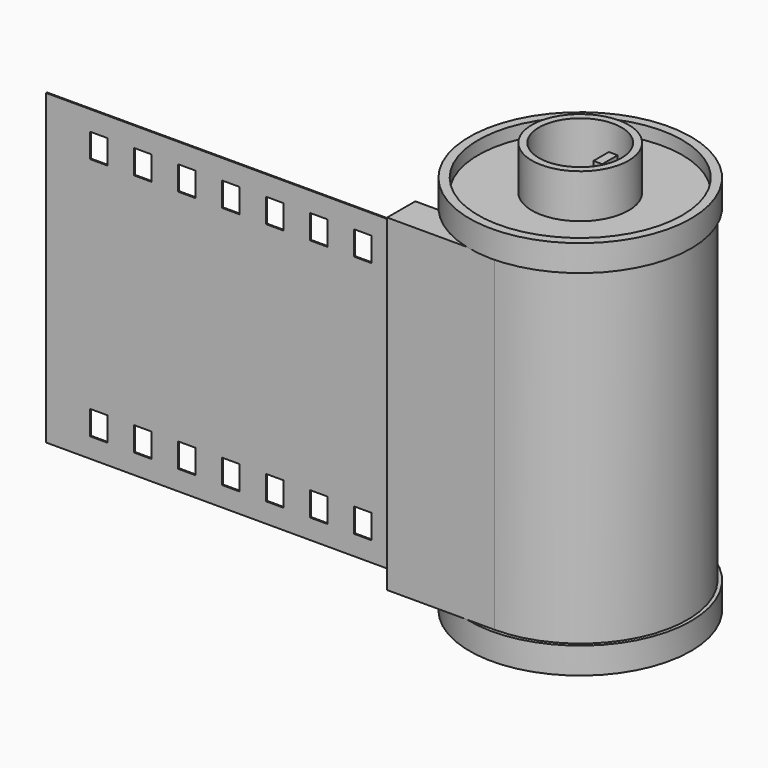
from build123d import *

# Parameters (mm, degrees)
F1_DEPTH  = 18.65
F4_R      = 4.65
F5_DEPTH  = 5
F7_DEPTH  = 7
F10_R     = 5.5
F10_R_2   = 4.7
F11_DEPTH = 5
F12_R     = 4.7
F13_DEPTH = 9.5
F15_DEPTH = 11.5
F17_W     = 40
F17_H     = 35
F17_W_2   = 2
F17_H_2   = 2.75
F18_DEPTH = 0.14


with BuildPart() as f1:
    # F0 (on Top) → F1 (new body, symmetric)
    with BuildSketch(Plane.XY):
        with BuildLine():
            Line((-12.2, -12.2), (0, -12.2))
            ThreePointArc((0, -12.2), (4.9396356141, 11.1552678139), (-9.0332718325, -8.2))
            Line((-9.0332718325, -8.2), (-12.2, -8.2))
            Line((-12.2, -8.2), (-12.2, -12.2))
        make_face()
    extrude(amount=F1_DEPTH, both=True)

    # F2 (on Front) → F3 (revolve)
    with BuildSketch(Plane.XZ):
        Polygon((12.6, -18.65), (0, -18.65), (0, -20.15), (11.6, -20.15), (11.6, -21.65), (12.6, -21.65), align=None)
    revolve(axis=Axis((0, 0, -19.4), (0, 0, -1)))

    # F4 (on face) → F5 (cut)
    with BuildSketch(Plane(origin=(0, 0, -20.15), x_dir=(1, 0, 0), z_dir=(0, 0, -1))):
        Circle(F4_R)
    extrude(amount=-F5_DEPTH, mode=Mode.SUBTRACT)

    # F6 (on face) → F7 (cut)
    with BuildSketch(Plane(origin=(0, 0, -15.15), x_dir=(1, 0, 0), z_dir=(0, 0, -1))):
        with BuildLine():
            Line((-0.5, -4.6230401253), (-0.5, 4.6230401253))
            ThreePointArc((-0.5, 4.6230401253), (-4.65, 0), (-0.5, -4.6230401253))
        make_face()
        with BuildLine():
            ThreePointArc((4.65, 0), (3.4603106797, 3.1062437123), (0.5, 4.6230401253))
            Line((0.5, 4.6230401253), (0.5, -4.6230401253))
            ThreePointArc((0.5, -4.6230401253), (3.4603106797, -3.1062437123), (4.65, 0))
        make_face()
    extrude(amount=-F7_DEPTH, mode=Mode.SUBTRACT)

    # F8 (on Front) → F9 (revolve)
    with BuildSketch(Plane.XZ):
        Polygon((0, 20.15), (0, 18.65), (12.6, 18.65), (12.6, 21.65), (11.6, 21.65), (11.6, 20.15), align=None)
    revolve(axis=Axis((0, 0, 19.4), (0, 0, -1)))

    # F10 (on face) → F11 (join)
    with BuildSketch(Plane.XY.offset(20.15)):
        Circle(F10_R)
        Circle(F10_R_2, mode=Mode.SUBTRACT)
    extrude(amount=F11_DEPTH)

    # F12 (on face) → F13 (cut)
    with BuildSketch(Plane.XY.offset(20.15)):
        Circle(F12_R)
    extrude(amount=-F13_DEPTH, mode=Mode.SUBTRACT)

    # F14 (on face) → F15 (join)
    with BuildSketch(Plane.XY.offset(10.65)):
        with BuildLine():
            ThreePointArc((0.5, 4.6733285782), (0, 4.7), (-0.5, 4.6733285782))
            Line((-0.5, 4.6733285782), (-0.5, 2.5))
            Line((-0.5, 2.5), (0.5, 2.5))
            Line((0.5, 2.5), (0.5, 4.6733285782))
        make_face()
        with BuildLine():
            ThreePointArc((-0.5, -4.6733285782), (0, -4.7), (0.5, -4.6733285782))
            Line((0.5, -4.6733285782), (0.5, -2.5))
            Line((0.5, -2.5), (-0.5, -2.5))
            Line((-0.5, -2.5), (-0.5, -4.6733285782))
        make_face()
    extrude(amount=F15_DEPTH)

    # F17 (on offset) → F18 (join)
    with BuildSketch(Plane.XZ.offset(10.55)):
        with Locations((-32.2, 0)):
            Rectangle(F17_W, F17_H)
        with Locations((-46.2, -13.875)):
            Rectangle(F17_W_2, F17_H_2, mode=Mode.SUBTRACT)
        with Locations((-41.2, -13.875)):
            Rectangle(F17_W_2, F17_H_2, mode=Mode.SUBTRACT)
        with Locations((-36.2, -13.875)):
            Rectangle(F17_W_2, F17_H_2, mode=Mode.SUBTRACT)
        with Locations((-31.2, -13.875)):
            Rectangle(F17_W_2, F17_H_2, mode=Mode.SUBTRACT)
        with Locations((-26.2, -13.875)):
            Rectangle(F17_W_2, F17_H_2, mode=Mode.SUBTRACT)
        with Locations((-21.2, -13.875)):
            Rectangle(F17_W_2, F17_H_2, mode=Mode.SUBTRACT)
        with Locations((-16.2, -13.875)):
            Rectangle(F17_W_2, F17_H_2, mode=Mode.SUBTRACT)
        with Locations((-46.2, 13.875)):
            Rectangle(F17_W_2, F17_H_2, mode=Mode.SUBTRACT)
        with Locations((-41.2, 13.875)):
            Rectangle(F17_W_2, F17_H_2, mode=Mode.SUBTRACT)
        with Locations((-36.2, 13.875)):
            Rectangle(F17_W_2, F17_H_2, mode=Mode.SUBTRACT)
        with Locations((-31.2, 13.875)):
            Rectangle(F17_W_2, F17_H_2, mode=Mode.SUBTRACT)
        with Locations((-26.2, 13.875)):
            Rectangle(F17_W_2, F17_H_2, mode=Mode.SUBTRACT)
        with Locations((-21.2, 13.875)):
            Rectangle(F17_W_2, F17_H_2, mode=Mode.SUBTRACT)
        with Locations((-16.2, 13.875)):
            Rectangle(F17_W_2, F17_H_2, mode=Mode.SUBTRACT)
    extrude(amount=F18_DEPTH)


solid = f1.part
